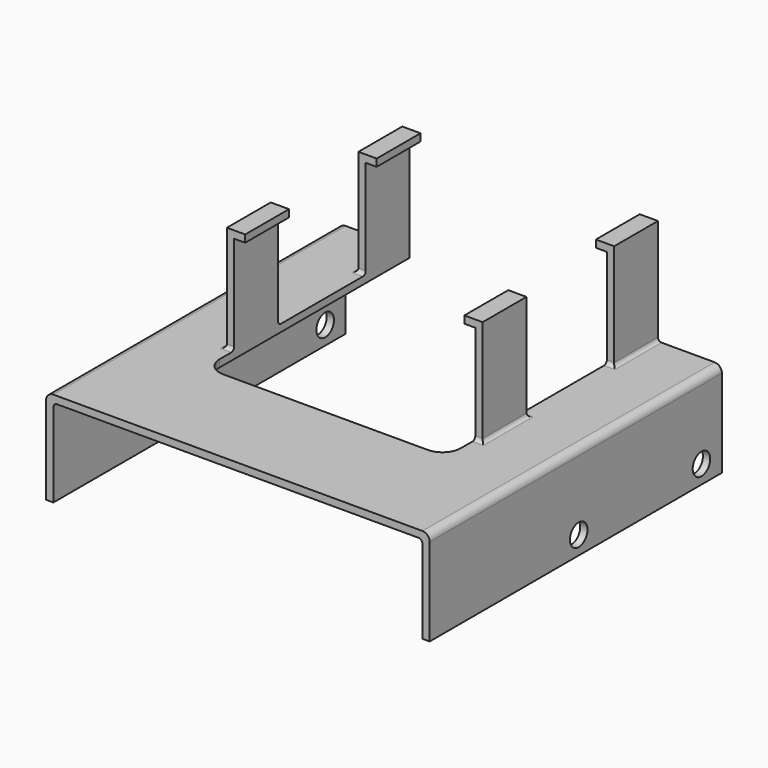
from build123d import *

# Parameters (mm, degrees)
F1_DEPTH  = 100
F2_R      = 3
F3_DEPTH  = 105.001
F4_W      = 66
F4_H      = 70
F5_DEPTH  = 25
F6_W      = 2
F6_H      = 15
F7_DEPTH  = 29
F8_W      = 15
F8_H      = 2
F9_DEPTH  = 3
F10_W     = 15
F10_H     = 2
F11_DEPTH = 3
F12_R     = 1
F13_R     = 2
F14_R     = 5


with BuildPart() as f1:
    # F0 (on Front) → F1 (new body)
    with BuildSketch(Plane.XZ):
        Polygon((105, 26), (0, 26), (0, 0), (2, 0), (2, 24), (103, 24), (103, 0), (105, 0), align=None)
    extrude(amount=F1_DEPTH)

    # F2 (on face) → F3 (cut, through all)
    with BuildSketch(Plane.YZ.offset(105)):
        with Locations((-7, 5)):
            Circle(F2_R)
        with Locations((-49, 5)):
            Circle(F2_R)
    extrude(amount=-F3_DEPTH, mode=Mode.SUBTRACT)

    # F4 (on face) → F5 (cut)
    with BuildSketch(Plane.XY.offset(26)):
        with Locations((52.5, -35)):
            Rectangle(F4_W, F4_H)
    extrude(amount=-F5_DEPTH, mode=Mode.SUBTRACT)

    # F6 (on face) → F7 (join)
    with BuildSketch(Plane.XY.offset(26)):
        with Locations((18.5, -7.5)):
            Rectangle(F6_W, F6_H)
        with Locations((18.5, -52.5)):
            Rectangle(F6_W, F6_H)
        with Locations((86.5, -7.5)):
            Rectangle(F6_W, F6_H)
        with Locations((86.5, -52.5)):
            Rectangle(F6_W, F6_H)
    extrude(amount=F7_DEPTH)

    # F8 (on face) → F9 (join)
    with BuildSketch(Plane.YZ.offset(19.5)):
        with Locations((-52.5, 54)):
            Rectangle(F8_W, F8_H)
        with Locations((-7.5, 54)):
            Rectangle(F8_W, F8_H)
    extrude(amount=F9_DEPTH)

    # F10 (on face) → F11 (join)
    with BuildSketch(Plane(origin=(85.5, 0, 0), x_dir=(0, -1, 0), z_dir=(-1, 0, 0))):
        with Locations((7.5, 54)):
            Rectangle(F10_W, F10_H)
        with Locations((52.5, 54)):
            Rectangle(F10_W, F10_H)
    extrude(amount=F11_DEPTH)

    # F12
    f12_edges = [f1.edges().sort_by_distance(p)[0] for p in [
        (2, -50, 24),
        (103, -50, 24),
        (17.5, -7.5, 26),
        (18.5, -15, 26),
        (17.5, -52.5, 26),
        (18.5, -60, 26),
        (18.5, -45, 26),
        (86.5, -60, 26),
        (87.5, -52.5, 26),
        (86.5, -15, 26),
        (87.5, -7.5, 26),
        (86.5, -45, 26),
    ]]
    fillet(f12_edges, radius=F12_R)

    # F13
    f13_edges = [f1.edges().sort_by_distance(p)[0] for p in [
        (0, -50, 26),
        (105, -50, 26),
    ]]
    fillet(f13_edges, radius=F13_R)

    # F14
    f14_edges = [f1.edges().sort_by_distance(p)[0] for p in [
        (85.5, -70, 25),
        (19.5, -70, 25),
    ]]
    fillet(f14_edges, radius=F14_R)


solid = f1.part
